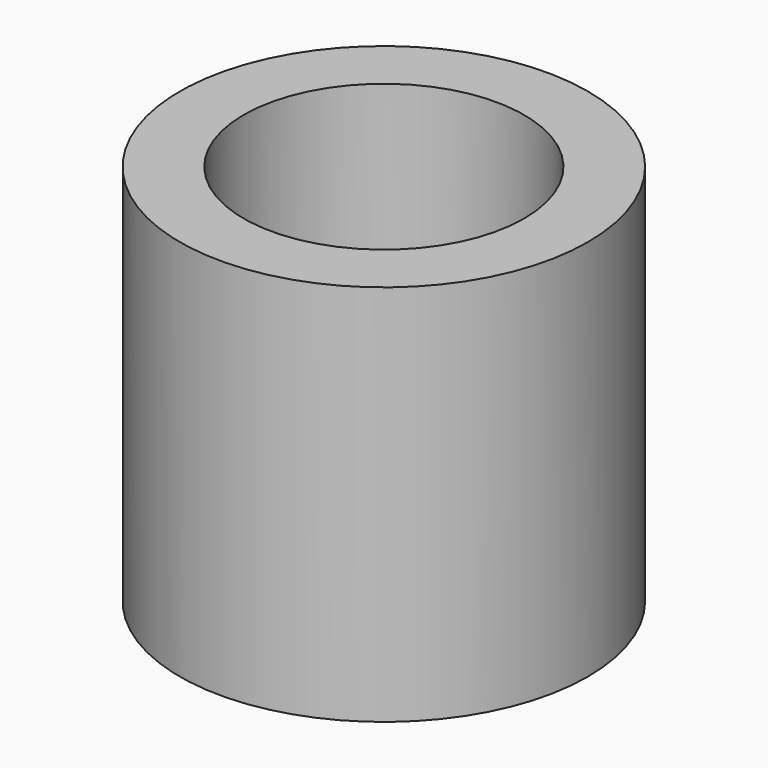
from build123d import *

# Parameters (mm, degrees)
F0_R     = 8
F0_R_2   = 5.5
F1_DEPTH = 15


with BuildPart() as f1:
    # F0 (on Top) → F1 (new body)
    with BuildSketch(Plane.XY):
        Circle(F0_R)
        Circle(F0_R_2, mode=Mode.SUBTRACT)
        Circle(F0_R)
        Circle(F0_R_2, mode=Mode.SUBTRACT)
    extrude(amount=F1_DEPTH)


solid = f1.part
